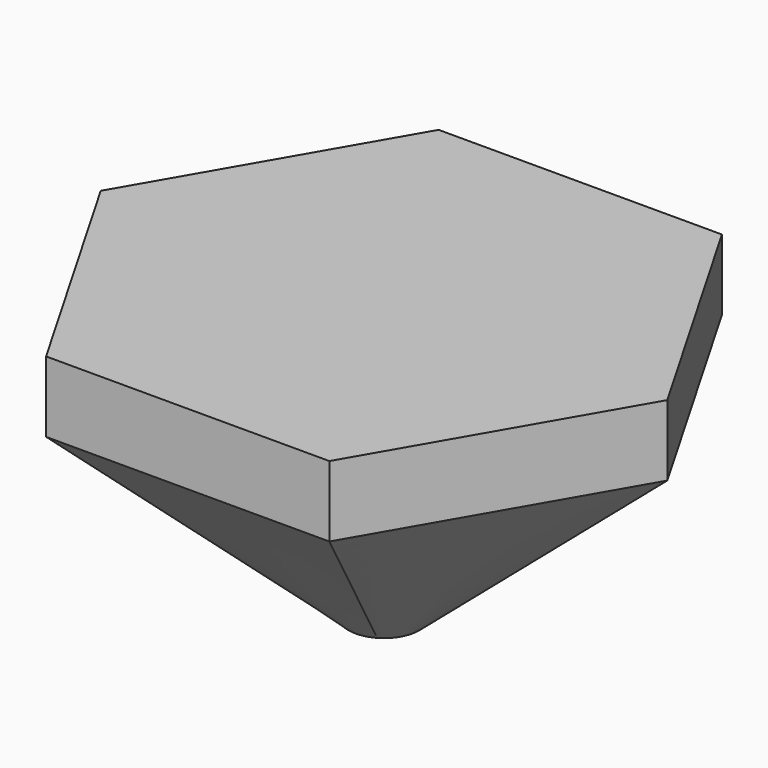
from build123d import *

# Parameters (mm, degrees)
F1_DEPTH = 40
F3_DEPTH = 30
F5_R     = 5


with BuildPart() as f1:
    # F0 (on Top) → F1 (new body)
    with BuildSketch(Plane.XY):
        Polygon((20, -34.641016), (40, 0), (20, 34.641016), (-20, 34.641016), (-40, 0), (-20, -34.641016), align=None)
    extrude(amount=F1_DEPTH)

    # F2 (on face) → F3 (cut)
    with BuildSketch(Plane(origin=(0, 0, 0), x_dir=(1, 0, 0), z_dir=(0, 0, -1))):
        Polygon((-20, -34.641016), (20, -34.641016), (40, 0), (20, 34.641016), (-20, 34.641016), (-40, 0), align=None)
    extrude(amount=-F3_DEPTH, mode=Mode.SUBTRACT)

    # F5 (on Top) → F6 section 0
    with BuildSketch(Plane.XY):
        Circle(F5_R)
    # F4 (on face) → F6 section 1
    with BuildSketch(Plane(origin=(0, 0, 30), x_dir=(1, 0, 0), z_dir=(0, 0, -1))):
        Polygon((-40, 0), (-20, -34.641016), (20, -34.641016), (40, 0), (20, 34.641016), (-20, 34.641016), align=None)
    loft()


solid = f1.part
